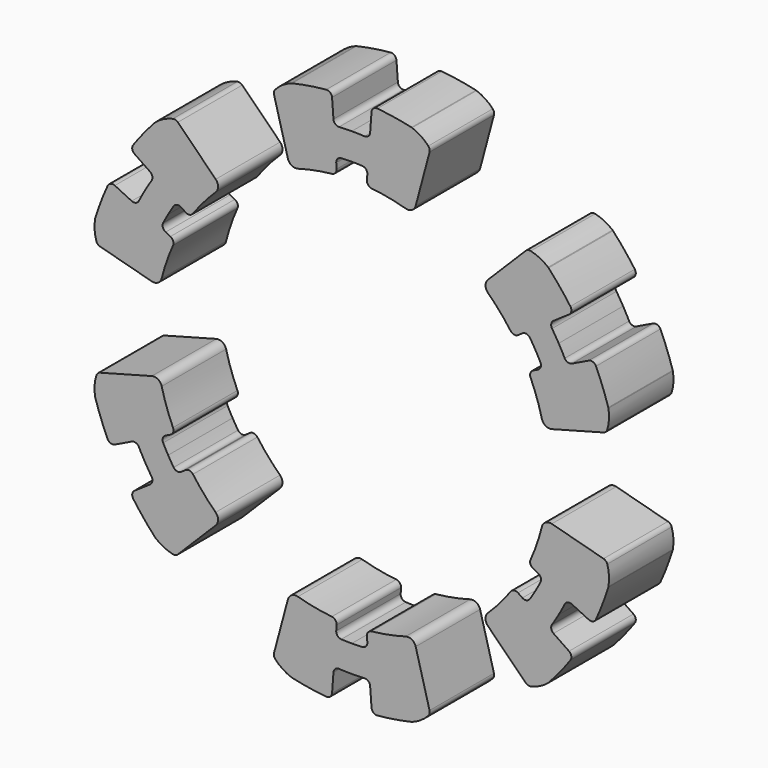
from build123d import *

# Parameters (mm, degrees)
F1_DEPTH = 15
F3_DEPTH = 25
F4_R     = 1
F6_COUNT = 6


with BuildPart() as f1:
    # F0 (on Front) → F1 (new body)
    with BuildSketch(Plane.XZ):
        with BuildLine():
            ThreePointArc((-13.580939, 48.120246), (-14.477543, 47.417922), (-14.622354, 46.288237))
            Line((-14.622354, 46.288237), (-11.903243, 36.14522))
            ThreePointArc((-11.903243, 36.14522), (-11.193312, 35.228244), (-10.041727, 35.091505))
            ThreePointArc((-10.041727, 35.091505), (-6.906978, 35.840531), (-3.718374, 36.310105))
            ThreePointArc((-3.718374, 36.310105), (-3.05367, 36.66275), (-2.822995, 37.378976))
            Line((-2.822995, 37.378976), (-2.897275, 38.379013))
            ThreePointArc((-2.897275, 38.379013), (-2.649422, 39.115205), (-1.949374, 39.451869))
            ThreePointArc((-1.949374, 39.451869), (-0.974984, 39.487965), (0, 39.5))
            Line((0, 39.5), (0, 44.5))
            ThreePointArc((0, 44.5), (-1.183177, 44.484268), (-2.365518, 44.437083))
            ThreePointArc((-2.365518, 44.437083), (-3.079364, 44.685009), (-3.415928, 45.361595))
            Line((-3.415928, 45.361595), (-3.6751, 48.850801))
            ThreePointArc((-3.6751, 48.850801), (-4.027693, 49.541197), (-4.767707, 49.772171))
            ThreePointArc((-4.767707, 49.772171), (-9.211429, 49.144171), (-13.580939, 48.120246))
        make_face()
    extrude(amount=F1_DEPTH)

    # F2 (on face) → F3 (cut)
    with BuildSketch(Plane.XZ.offset(15)):
        with BuildLine():
            ThreePointArc((-14.622354, 46.288237), (-12.215568, 48.282085), (-9.211429, 49.144171))
            Line((-9.211429, 49.144171), (-9.48189, 50.323609))
            Line((-9.48189, 50.323609), (-17.060217, 47.299836))
            Line((-17.060217, 47.299836), (-14.622354, 46.288237))
        make_face()
    extrude(amount=-F3_DEPTH, mode=Mode.SUBTRACT)

    # F4
    f4_edges = [f1.edges().sort_by_distance(p)[0] for p in [
        (-14.622354, -7.5, 46.288237),
        (-11.180409, -7.5, 48.733956),
    ]]
    fillet(f4_edges, radius=F4_R)

    # F5: F1 across plane


with BuildPart() as f1_1:
    add(f1.part)
    add(f1.part.mirror(Plane.YZ))


with BuildPart() as f6_1:
    # F6: instance of F1
    add(f1_1.part.rotate(Axis((0, 0, 0), (0, 1, 0)), 1 * 360 / F6_COUNT))


with BuildPart() as f6_2:
    # F6: instance of F1
    add(f1_1.part.rotate(Axis((0, 0, 0), (0, 1, 0)), 2 * 360 / F6_COUNT))


with BuildPart() as f6_3:
    # F6: instance of F1
    add(f1_1.part.rotate(Axis((0, 0, 0), (0, 1, 0)), 3 * 360 / F6_COUNT))


with BuildPart() as f6_4:
    # F6: instance of F1
    add(f1_1.part.rotate(Axis((0, 0, 0), (0, 1, 0)), 4 * 360 / F6_COUNT))


with BuildPart() as f6_5:
    # F6: instance of F1
    add(f1_1.part.rotate(Axis((0, 0, 0), (0, 1, 0)), 5 * 360 / F6_COUNT))


solid = Compound([f1_1.part, f6_1.part, f6_2.part, f6_3.part, f6_4.part, f6_5.part])
